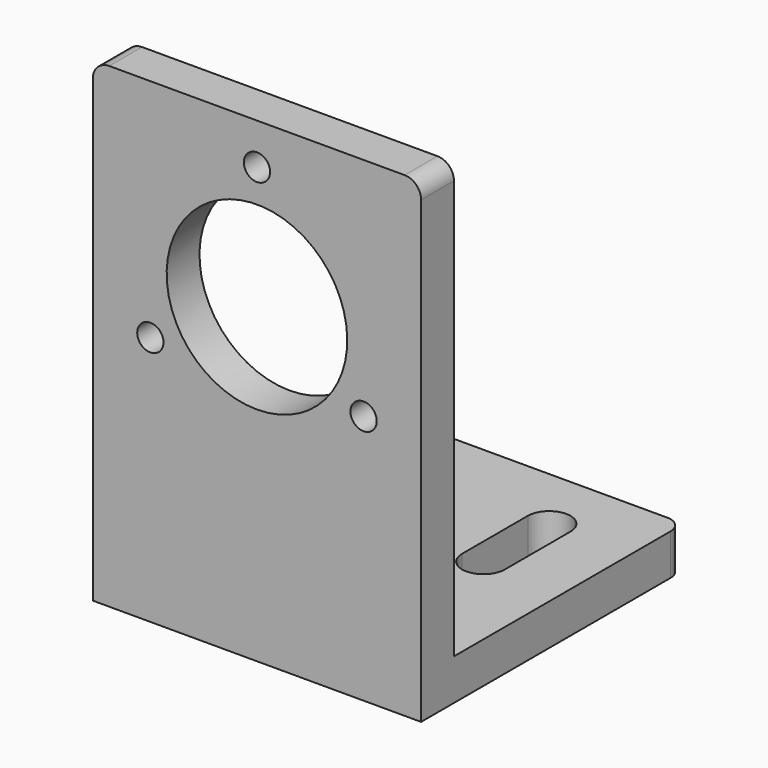
from build123d import *

# Parameters (mm, degrees)
PAD_DEPTH       = 40
SKETCH001_R     = 11
POCKET_DEPTH    = 5
SKETCH002_R     = 1.6
POCKET001_DEPTH = 40.001
FILLET_R        = 2
POCKET002_DEPTH = 5
FILLET001_R     = 2


with BuildPart() as part:
    # Sketch → Pad (new body)
    with BuildSketch(Plane.YZ):
        Polygon((5, 5), (5, 58), (0, 58), (0, 0), (40, 0), (40, 5), align=None)
    extrude(amount=-PAD_DEPTH)

    # Sketch001 (on Face3 of Pad) → Pocket (cut)
    with BuildSketch(Plane(origin=(0, 0, 0), x_dir=(0, 0, -1), z_dir=(0, -1, 0))):
        with Locations((-38, -20)):
            Circle(SKETCH001_R)
    extrude(amount=-POCKET_DEPTH, mode=Mode.SUBTRACT)

    # Sketch002 (on Face8 of Pocket) → Pocket001 (cut, through all)
    with BuildSketch(Plane(origin=(0, 0, 0), x_dir=(0, 0, -1), z_dir=(0, -1, 0))):
        with Locations((-53, -20)):
            Circle(SKETCH002_R)
        with Locations((-30.5, -32.99)):
            Circle(SKETCH002_R)
        with Locations((-30.5, -7.01)):
            Circle(SKETCH002_R)
    extrude(amount=-POCKET001_DEPTH, mode=Mode.SUBTRACT)

    # Fillet
    fillet_edges = [part.edges().sort_by_distance(p)[0] for p in [
        (0, 2.5, 58),
        (-40, 2.5, 58),
    ]]
    fillet(fillet_edges, radius=FILLET_R)

    # Sketch003 (on Face4 of Fillet) → Pocket002 (cut)
    with BuildSketch(Plane(origin=(0, 0, 5), x_dir=(0, -1, 0), z_dir=(0, 0, 1))):
        with BuildLine():
            ThreePointArc((-32, -7.4), (-34.6, -10), (-32, -12.6))
            Line((-32, -12.6), (-22, -12.6))
            ThreePointArc((-22, -12.6), (-19.4, -10), (-22, -7.4))
            Line((-22, -7.4), (-32, -7.4))
        make_face()
        with BuildLine():
            ThreePointArc((-32, -27.4), (-34.6, -30), (-32, -32.6))
            Line((-32, -32.6), (-22, -32.6))
            ThreePointArc((-22, -32.6), (-19.4, -30), (-22, -27.4))
            Line((-22, -27.4), (-32, -27.4))
        make_face()
    extrude(amount=-POCKET002_DEPTH, mode=Mode.SUBTRACT)

    # Fillet001
    fillet001_edges = [part.edges().sort_by_distance(p)[0] for p in [
        (0, 40, 2.5),
        (-40, 40, 2.5),
    ]]
    fillet(fillet001_edges, radius=FILLET001_R)


solid = part.part
